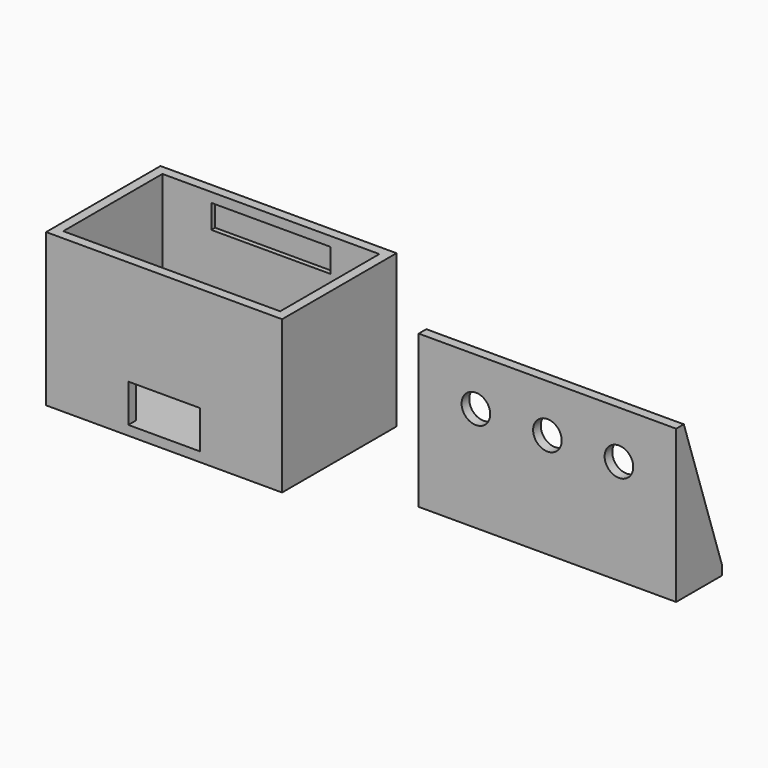
from build123d import *

# Parameters (mm, degrees)
SKETCH_W        = 49.5
SKETCH_H        = 30
SKETCH_R        = 2
PAD_DEPTH       = 2
SKETCH001_W     = 49.5
SKETCH001_H     = 30
SKETCH001_W_2   = 45.5
SKETCH001_H_2   = 26
PAD001_DEPTH    = 30
SKETCH002_W     = 25
SKETCH002_H     = 5
POCKET_DEPTH    = 1
SKETCH003_W     = 15
SKETCH003_H     = 8
POCKET001_DEPTH = 2
SKETCH004_W     = 54
SKETCH004_H     = 30
SKETCH004_R     = 3
PAD002_DEPTH    = 2
SKETCH005_R     = 2
PAD003_DEPTH    = 2
SKETCH006_W     = 2
SKETCH006_H     = 10
PAD004_DEPTH    = 30
CHAMFER_1_SIZE2 = 29.99
CHAMFER_1_SIZE  = 9.99
CHAMFER_2_SIZE2 = 29.99
CHAMFER_2_SIZE  = 9.99


with BuildPart() as body:
    # Sketch → Pad (new body)
    with BuildSketch(Plane.XY):
        Rectangle(SKETCH_W, SKETCH_H)
        with Locations((-17.75, 8)):
            Circle(SKETCH_R, mode=Mode.SUBTRACT)
        with Locations((17.75, 8)):
            Circle(SKETCH_R, mode=Mode.SUBTRACT)
        with Locations((-17.75, -8)):
            Circle(SKETCH_R, mode=Mode.SUBTRACT)
        with Locations((17.75, -8)):
            Circle(SKETCH_R, mode=Mode.SUBTRACT)
    extrude(amount=PAD_DEPTH)

    # Sketch001 (on Face10 of Pad) → Pad001 (join)
    with BuildSketch(Plane.XY.offset(2)):
        Rectangle(SKETCH001_W, SKETCH001_H)
        Rectangle(SKETCH001_W_2, SKETCH001_H_2, mode=Mode.SUBTRACT)
    extrude(amount=PAD001_DEPTH)

    # Sketch002 (on Face19 of Pad001) → Pocket (cut)
    with BuildSketch(Plane.XZ.offset(-13)):
        with Locations((0, 27.5)):
            Rectangle(SKETCH002_W, SKETCH002_H)
    pocket = extrude(amount=-POCKET_DEPTH, mode=Mode.SUBTRACT)

    # Mirrored: Pocket across XZ
    add(pocket.mirror(Plane.XZ), mode=Mode.SUBTRACT)

    # Sketch003 (on Face14 of Mirrored) → Pocket001 (cut)
    with BuildSketch(Plane.XZ.offset(15)):
        with Locations((0, 6)):
            Rectangle(SKETCH003_W, SKETCH003_H)
    extrude(amount=-POCKET001_DEPTH, mode=Mode.SUBTRACT)


with BuildPart() as body001:
    # Sketch004 → Pad002 (new body)
    with BuildSketch(Plane.XZ):
        with Locations((70, 15)):
            Rectangle(SKETCH004_W, SKETCH004_H)
        with Locations((55, 20)):
            Circle(SKETCH004_R, mode=Mode.SUBTRACT)
        with Locations((70, 20)):
            Circle(SKETCH004_R, mode=Mode.SUBTRACT)
        with Locations((85, 20)):
            Circle(SKETCH004_R, mode=Mode.SUBTRACT)
    extrude(amount=PAD002_DEPTH)

    # Sketch005 (on Face3 of Pad002) → Pad003 (join)
    with BuildSketch(Plane(origin=(0, 0, 0), x_dir=(1, 0, 0), z_dir=(0, 0, -1))):
        Polygon((43, -10), (97, -10), (97, 0), (97, 2), (43, 2), (43, 0), align=None)
        with Locations((55, -5)):
            Circle(SKETCH005_R, mode=Mode.SUBTRACT)
        with Locations((85, -5)):
            Circle(SKETCH005_R, mode=Mode.SUBTRACT)
    extrude(amount=PAD003_DEPTH)

    # Sketch006 (on Face8 of Pad003) → Pad004 (join)
    with BuildSketch(Plane(origin=(0, 0, 0), x_dir=(-1, 0, 0), z_dir=(0, 0, 1))):
        with Locations((-96, -5)):
            Rectangle(SKETCH006_W, SKETCH006_H)
        with Locations((-44, -5)):
            Rectangle(SKETCH006_W, SKETCH006_H)
    extrude(amount=PAD004_DEPTH)

    # Chamfer 1
    chamfer_1_edges = [body001.edges().sort_by_distance(p)[0] for p in [
        (96, 10, 30),
    ]]
    chamfer_1_side = body001.faces().sort_by_distance((96, 5, 30))[0]
    chamfer(chamfer_1_edges, length=CHAMFER_1_SIZE, length2=CHAMFER_1_SIZE2, reference=chamfer_1_side)

    # Chamfer 2
    chamfer_2_edges = [body001.edges().sort_by_distance(p)[0] for p in [
        (44, 10, 30),
    ]]
    chamfer_2_side = body001.faces().sort_by_distance((44, 5, 30))[0]
    chamfer(chamfer_2_edges, length=CHAMFER_2_SIZE, length2=CHAMFER_2_SIZE2, reference=chamfer_2_side)


solid = Compound([body.part, body001.part])
